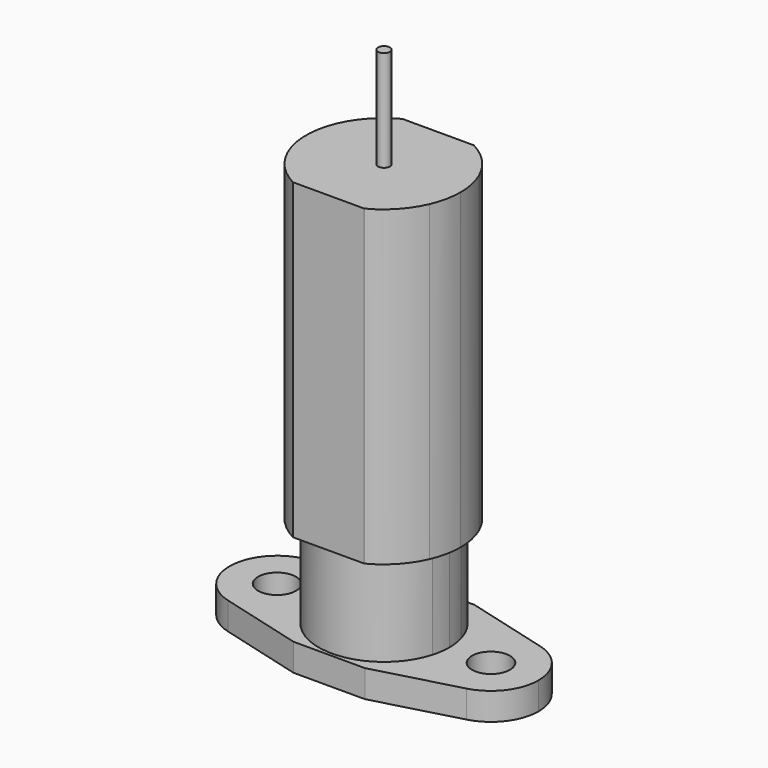
from build123d import *

# Parameters (mm, degrees)
F0_R     = 1.6
F0_R_2   = 0.5
F1_DEPTH = 2.3
F2_DEPTH = 10
F3_R     = 0.5
F4_DEPTH = 26.3
F5_DEPTH = 44.8
F6_R     = 0.5
F7_DEPTH = 2.5


with BuildPart() as f1:
    # F0 (on Top) → F1 (new body)
    with BuildSketch(Plane.XY):
        with BuildLine():
            ThreePointArc((-5.9583333333, 2.5977420751), (-7.8179017385, 3.8213405632), (-10.0435650822, 3.8614727656))
            ThreePointArc((-10.0435650822, 3.8614727656), (-13, 0), (-10.0435650822, -3.8614727656))
            ThreePointArc((-10.0435650822, -3.8614727656), (-7.8179017385, -3.8213405632), (-5.9583333333, -2.5977420751))
            ThreePointArc((-5.9583333333, -2.5977420751), (-6.5, 0), (-5.9583333333, 2.5977420751))
        make_face()
        with Locations((-9, 0)):
            Circle(F0_R, mode=Mode.SUBTRACT)
        with BuildLine():
            ThreePointArc((-5.9583333333, 2.5977420751), (-4.7530555292, 4.4337865461), (-3.0051133447, 5.7636181159))
            Line((-3.0051133447, 5.7636181159), (-10.0435650822, 3.8614727656))
            ThreePointArc((-10.0435650822, 3.8614727656), (-7.8179017385, 3.8213405632), (-5.9583333333, 2.5977420751))
        make_face()
        with BuildLine():
            ThreePointArc((-5.2916666667, -1.4994211846), (-5.5, 0), (-5.2916666667, 1.4994211846))
            ThreePointArc((-5.2916666667, 1.4994211846), (-5.5806137693, 2.0755235015), (-5.9583333333, 2.5977420751))
            ThreePointArc((-5.9583333333, 2.5977420751), (-6.5, 0), (-5.9583333333, -2.5977420751))
            ThreePointArc((-5.9583333333, -2.5977420751), (-5.5806137693, -2.0755235015), (-5.2916666667, -1.4994211846))
        make_face()
        with BuildLine():
            ThreePointArc((-5, 0), (-5.0735936702, 0.7637626158), (-5.2916666667, 1.4994211846))
            ThreePointArc((-5.2916666667, 1.4994211846), (-5.5, 0), (-5.2916666667, -1.4994211846))
            ThreePointArc((-5.2916666667, -1.4994211846), (-5.0735936702, -0.7637626158), (-5, 0))
        make_face()
        with BuildLine():
            Line((-10.0435650822, -3.8614727656), (-3.0051133447, -5.7636181159))
            ThreePointArc((-3.0051133447, -5.7636181159), (-4.7530555292, -4.4337865461), (-5.9583333333, -2.5977420751))
            ThreePointArc((-5.9583333333, -2.5977420751), (-7.8179017385, -3.8213405632), (-10.0435650822, -3.8614727656))
        make_face()
        with BuildLine():
            ThreePointArc((3.0051133447, -5.7636181159), (4.7530555292, -4.4337865461), (5.9583333333, -2.5977420751))
            ThreePointArc((5.9583333333, -2.5977420751), (5.5806137693, -2.0755235015), (5.2916666667, -1.4994211846))
            ThreePointArc((5.2916666667, -1.4994211846), (0, -5.5), (-5.2916666667, -1.4994211846))
            ThreePointArc((-5.2916666667, -1.4994211846), (-5.5806137693, -2.0755235015), (-5.9583333333, -2.5977420751))
            ThreePointArc((-5.9583333333, -2.5977420751), (-4.7530555292, -4.4337865461), (-3.0051133447, -5.7636181159))
            Line((-3.0051133447, -5.7636181159), (-3, -5.765))
            Line((-3, -5.765), (3, -5.765))
            Line((3, -5.765), (3.0051133447, -5.7636181159))
        make_face()
        with BuildLine():
            ThreePointArc((5.2916666667, -1.4994211846), (5, 0), (5.2916666667, 1.4994211846))
            ThreePointArc((5.2916666667, 1.4994211846), (0, 5.5), (-5.2916666667, 1.4994211846))
            ThreePointArc((-5.2916666667, 1.4994211846), (-5.0735936702, 0.7637626158), (-5, 0))
            ThreePointArc((-5, 0), (-5.0735936702, -0.7637626158), (-5.2916666667, -1.4994211846))
            ThreePointArc((-5.2916666667, -1.4994211846), (0, -5.5), (5.2916666667, -1.4994211846))
        make_face()
        Circle(F0_R_2, mode=Mode.SUBTRACT)
        with BuildLine():
            ThreePointArc((5.2916666667, 1.4994211846), (5.5806137693, 2.0755235015), (5.9583333333, 2.5977420751))
            ThreePointArc((5.9583333333, 2.5977420751), (4.7530555292, 4.4337865461), (3.0051133447, 5.7636181159))
            Line((3.0051133447, 5.7636181159), (3, 5.765))
            Line((3, 5.765), (-3, 5.765))
            Line((-3, 5.765), (-3.0051133447, 5.7636181159))
            ThreePointArc((-3.0051133447, 5.7636181159), (-4.7530555292, 4.4337865461), (-5.9583333333, 2.5977420751))
            ThreePointArc((-5.9583333333, 2.5977420751), (-5.5806137693, 2.0755235015), (-5.2916666667, 1.4994211846))
            ThreePointArc((-5.2916666667, 1.4994211846), (0, 5.5), (5.2916666667, 1.4994211846))
        make_face()
        with BuildLine():
            ThreePointArc((5.9583333333, 2.5977420751), (7.8179017385, 3.8213405632), (10.0435650822, 3.8614727656))
            Line((10.0435650822, 3.8614727656), (3.0051133447, 5.7636181159))
            ThreePointArc((3.0051133447, 5.7636181159), (4.7530555292, 4.4337865461), (5.9583333333, 2.5977420751))
        make_face()
        with BuildLine():
            ThreePointArc((5.5, 0), (5.4476676967, 0.7569125885), (5.2916666667, 1.4994211846))
            ThreePointArc((5.2916666667, 1.4994211846), (5, 0), (5.2916666667, -1.4994211846))
            ThreePointArc((5.2916666667, -1.4994211846), (5.4476676967, -0.7569125885), (5.5, 0))
        make_face()
        with BuildLine():
            ThreePointArc((6.5, 0), (6.3631425674, 1.326806944), (5.9583333333, 2.5977420751))
            ThreePointArc((5.9583333333, 2.5977420751), (5.5806137693, 2.0755235015), (5.2916666667, 1.4994211846))
            ThreePointArc((5.2916666667, 1.4994211846), (5.4476676967, 0.7569125885), (5.5, 0))
            ThreePointArc((5.5, 0), (5.4476676967, -0.7569125885), (5.2916666667, -1.4994211846))
            ThreePointArc((5.2916666667, -1.4994211846), (5.5806137693, -2.0755235015), (5.9583333333, -2.5977420751))
            ThreePointArc((5.9583333333, -2.5977420751), (6.3631425674, -1.326806944), (6.5, 0))
        make_face()
        with BuildLine():
            ThreePointArc((10.0435650822, -3.8614727656), (12.1760242701, -2.4316393309), (13, 0))
            ThreePointArc((13, 0), (12.1760242701, 2.4316393309), (10.0435650822, 3.8614727656))
            ThreePointArc((10.0435650822, 3.8614727656), (7.8179017385, 3.8213405632), (5.9583333333, 2.5977420751))
            ThreePointArc((5.9583333333, 2.5977420751), (6.3631425674, 1.326806944), (6.5, 0))
            ThreePointArc((6.5, 0), (6.3631425674, -1.326806944), (5.9583333333, -2.5977420751))
            ThreePointArc((5.9583333333, -2.5977420751), (7.8179017385, -3.8213405632), (10.0435650822, -3.8614727656))
        make_face()
        with Locations((9, 0)):
            Circle(F0_R, mode=Mode.SUBTRACT)
        with BuildLine():
            Line((3.0051133447, -5.7636181159), (10.0435650822, -3.8614727656))
            ThreePointArc((10.0435650822, -3.8614727656), (7.8179017385, -3.8213405632), (5.9583333333, -2.5977420751))
            ThreePointArc((5.9583333333, -2.5977420751), (4.7530555292, -4.4337865461), (3.0051133447, -5.7636181159))
        make_face()
    extrude(amount=F1_DEPTH)

    # F0 (on Top) → F2 (join)
    with BuildSketch(Plane.XY):
        with BuildLine():
            ThreePointArc((5.2916666667, -1.4994211846), (5, 0), (5.2916666667, 1.4994211846))
            ThreePointArc((5.2916666667, 1.4994211846), (0, 5.5), (-5.2916666667, 1.4994211846))
            ThreePointArc((-5.2916666667, 1.4994211846), (-5.0735936702, 0.7637626158), (-5, 0))
            ThreePointArc((-5, 0), (-5.0735936702, -0.7637626158), (-5.2916666667, -1.4994211846))
            ThreePointArc((-5.2916666667, -1.4994211846), (0, -5.5), (5.2916666667, -1.4994211846))
        make_face()
        Circle(F0_R_2, mode=Mode.SUBTRACT)
        Circle(F0_R_2)
        with BuildLine():
            ThreePointArc((-5, 0), (-5.0735936702, 0.7637626158), (-5.2916666667, 1.4994211846))
            ThreePointArc((-5.2916666667, 1.4994211846), (-5.5, 0), (-5.2916666667, -1.4994211846))
            ThreePointArc((-5.2916666667, -1.4994211846), (-5.0735936702, -0.7637626158), (-5, 0))
        make_face()
        with BuildLine():
            ThreePointArc((5.5, 0), (5.4476676967, 0.7569125885), (5.2916666667, 1.4994211846))
            ThreePointArc((5.2916666667, 1.4994211846), (5, 0), (5.2916666667, -1.4994211846))
            ThreePointArc((5.2916666667, -1.4994211846), (5.4476676967, -0.7569125885), (5.5, 0))
        make_face()
    extrude(amount=F2_DEPTH)

    # F3 (on face) → F4 (join)
    with BuildSketch(Plane.XY.offset(10)):
        with BuildLine():
            ThreePointArc((5.2050472789, -1.4591722497), (4.9133806123, 0.040248935), (5.2050472789, 1.5396701196))
            ThreePointArc((5.2050472789, 1.5396701196), (4.1142515453, 3.5902747665), (2.2742683579, 5.0077643152))
            ThreePointArc((2.2742683579, 5.0077643152), (-2.364863611, 4.9656238381), (-5.3213602345, 1.3903687478))
            ThreePointArc((-5.3213602345, 1.3903687478), (-5.1457415279, 0.7254362769), (-5.0866193877, 0.040248935))
            ThreePointArc((-5.0866193877, 0.040248935), (-5.1488151768, -0.662387526), (-5.3334683859, -1.3431734724))
            ThreePointArc((-5.3334683859, -1.3431734724), (-4.2526159756, -3.4878728997), (-2.3608877456, -4.9675153802))
            ThreePointArc((-2.3608877456, -4.9675153802), (2.2270986199, -4.949411272), (5.2050472789, -1.4591722497))
        make_face()
        with Locations((-0.0866193877, 0.040248935)):
            Circle(F3_R, mode=Mode.SUBTRACT)
        with BuildLine():
            ThreePointArc((5.2487200718, 1.6434529528), (5.5235454188, 2.1636936272), (5.8717139456, 2.6379910101))
            ThreePointArc((5.8717139456, 2.6379910101), (4.6664361415, 4.474035481), (2.918493957, 5.8038670508))
            Line((2.918493957, 5.8038670508), (2.9133806123, 5.805248935))
            Line((2.9133806123, 5.805248935), (-3.0866193877, 5.805248935))
            Line((-3.0866193877, 5.805248935), (-3.0917327325, 5.8038670508))
            ThreePointArc((-3.0917327325, 5.8038670508), (-4.839674917, 4.474035481), (-6.0449527211, 2.6379910101))
            ThreePointArc((-6.0449527211, 2.6379910101), (-5.667233157, 2.1157724365), (-5.3782860544, 1.5396701196))
            ThreePointArc((-5.3782860544, 1.5396701196), (-2.3569245673, 5.0498112304), (2.2742683579, 5.0077643152))
            ThreePointArc((2.2742683579, 5.0077643152), (4.1204959002, 3.6430088575), (5.2487200718, 1.6434529528))
        make_face()
        with BuildLine():
            ThreePointArc((2.918493957, -5.7233691809), (4.6664361415, -4.3935376111), (5.8717139456, -2.5574931402))
            ThreePointArc((5.8717139456, -2.5574931402), (5.5331684294, -2.0984809683), (5.2633479593, -1.5959850435))
            ThreePointArc((5.2633479593, -1.5959850435), (2.2243814929, -5.0301219641), (-2.3608877456, -4.9675153802))
            ThreePointArc((-2.3608877456, -4.9675153802), (-4.2565068058, -3.5461195515), (-5.3782860544, -1.4591722497))
            ThreePointArc((-5.3782860544, -1.4591722497), (-5.667233157, -2.0352745666), (-6.0449527211, -2.5574931402))
            ThreePointArc((-6.0449527211, -2.5574931402), (-4.839674917, -4.3935376111), (-3.0917327325, -5.7233691809))
            Line((-3.0917327325, -5.7233691809), (-3.0866193877, -5.724751065))
            Line((-3.0866193877, -5.724751065), (2.9133806123, -5.724751065))
            Line((2.9133806123, -5.724751065), (2.918493957, -5.7233691809))
        make_face()
        with BuildLine():
            ThreePointArc((-5.3782860544, 1.5396701196), (-5.667233157, 2.1157724365), (-6.0449527211, 2.6379910101))
            ThreePointArc((-6.0449527211, 2.6379910101), (-6.5866193877, 0.040248935), (-6.0449527211, -2.5574931402))
            ThreePointArc((-6.0449527211, -2.5574931402), (-5.667233157, -2.0352745666), (-5.3782860544, -1.4591722497))
            ThreePointArc((-5.3782860544, -1.4591722497), (-5.5866193877, 0.040248935), (-5.3782860544, 1.5396701196))
        make_face()
        with BuildLine():
            ThreePointArc((6.4133806123, 0.040248935), (6.2765231797, 1.367055879), (5.8717139456, 2.6379910101))
            ThreePointArc((5.8717139456, 2.6379910101), (5.5235454188, 2.1636936272), (5.2487200718, 1.6434529528))
            ThreePointArc((5.2487200718, 1.6434529528), (5.4368171017, 0.8312760087), (5.5, 0))
            ThreePointArc((5.5, 0), (5.4405153146, -0.806717492), (5.2633479593, -1.5959850435))
            ThreePointArc((5.2633479593, -1.5959850435), (5.5331684294, -2.0984809683), (5.8717139456, -2.5574931402))
            ThreePointArc((5.8717139456, -2.5574931402), (6.2765231797, -1.286558009), (6.4133806123, 0.040248935))
        make_face()
        with BuildLine():
            ThreePointArc((5.4133806123, 0.040248935), (5.3610483089, 0.7971615235), (5.2050472789, 1.5396701196))
            ThreePointArc((5.2050472789, 1.5396701196), (4.9133806123, 0.040248935), (5.2050472789, -1.4591722497))
            ThreePointArc((5.2050472789, -1.4591722497), (5.3610483089, -0.7166636536), (5.4133806123, 0.040248935))
        make_face()
        with Locations((-0.0866193877, 0.040248935)):
            Circle(F3_R)
        with BuildLine():
            ThreePointArc((-5.0866193877, 0.040248935), (-5.1457415279, 0.7254362769), (-5.3213602345, 1.3903687478))
            ThreePointArc((-5.3213602345, 1.3903687478), (-5.4999460452, 0.0243618623), (-5.3334683859, -1.3431734724))
            ThreePointArc((-5.3334683859, -1.3431734724), (-5.1488151768, -0.662387526), (-5.0866193877, 0.040248935))
        make_face()
        with BuildLine():
            ThreePointArc((-5.3213602345, 1.3903687478), (-2.364863611, 4.9656238381), (2.2742683579, 5.0077643152))
            ThreePointArc((2.2742683579, 5.0077643152), (-2.3569245673, 5.0498112304), (-5.3782860544, 1.5396701196))
            ThreePointArc((-5.3782860544, 1.5396701196), (-5.3490775634, 1.4653037098), (-5.3213602345, 1.3903687478))
        make_face()
        with BuildLine():
            ThreePointArc((-2.3608877456, -4.9675153802), (2.2243814929, -5.0301219641), (5.2633479593, -1.5959850435))
            ThreePointArc((5.2633479593, -1.5959850435), (5.2335617401, -1.5278496167), (5.2050472789, -1.4591722497))
            ThreePointArc((5.2050472789, -1.4591722497), (2.2270986199, -4.949411272), (-2.3608877456, -4.9675153802))
        make_face()
        with BuildLine():
            ThreePointArc((5.5, 0), (5.4368171017, 0.8312760087), (5.2487200718, 1.6434529528))
            ThreePointArc((5.2487200718, 1.6434529528), (5.2265184796, 1.591715214), (5.2050472789, 1.5396701196))
            ThreePointArc((5.2050472789, 1.5396701196), (5.3610483089, 0.7971615235), (5.4133806123, 0.040248935))
            ThreePointArc((5.4133806123, 0.040248935), (5.3610483089, -0.7166636536), (5.2050472789, -1.4591722497))
            ThreePointArc((5.2050472789, -1.4591722497), (5.2335617401, -1.5278496167), (5.2633479593, -1.5959850435))
            ThreePointArc((5.2633479593, -1.5959850435), (5.4405153146, -0.806717492), (5.5, 0))
        make_face()
        with BuildLine():
            ThreePointArc((-5.3213602345, 1.3903687478), (-5.3490775634, 1.4653037098), (-5.3782860544, 1.5396701196))
            ThreePointArc((-5.3782860544, 1.5396701196), (-5.5866193877, 0.040248935), (-5.3782860544, -1.4591722497))
            ThreePointArc((-5.3782860544, -1.4591722497), (-5.3554264082, -1.4013470382), (-5.3334683859, -1.3431734724))
            ThreePointArc((-5.3334683859, -1.3431734724), (-5.4999460452, 0.0243618623), (-5.3213602345, 1.3903687478))
        make_face()
        with BuildLine():
            ThreePointArc((-5.3782860544, -1.4591722497), (-4.2565068058, -3.5461195515), (-2.3608877456, -4.9675153802))
            ThreePointArc((-2.3608877456, -4.9675153802), (-4.2526159756, -3.4878728997), (-5.3334683859, -1.3431734724))
            ThreePointArc((-5.3334683859, -1.3431734724), (-5.3554264082, -1.4013470382), (-5.3782860544, -1.4591722497))
        make_face()
        with BuildLine():
            ThreePointArc((5.2050472789, 1.5396701196), (5.2265184796, 1.591715214), (5.2487200718, 1.6434529528))
            ThreePointArc((5.2487200718, 1.6434529528), (4.1204959002, 3.6430088575), (2.2742683579, 5.0077643152))
            ThreePointArc((2.2742683579, 5.0077643152), (4.1142515453, 3.5902747665), (5.2050472789, 1.5396701196))
        make_face()
    extrude(amount=F4_DEPTH)

    # F0 (on Top) → F5 (join)
    with BuildSketch(Plane.XY):
        Circle(F0_R_2)
    extrude(amount=F5_DEPTH)

    # F6 (on face) → F7 (join, symmetric)
    with BuildSketch(Plane.XY.offset(10)):
        with BuildLine():
            ThreePointArc((-2.3608877456, -4.9675153802), (2.2270986199, -4.949411272), (5.2050472789, -1.4591722497))
            ThreePointArc((5.2050472789, -1.4591722497), (4.9133806123, 0.040248935), (5.2050472789, 1.5396701196))
            ThreePointArc((5.2050472789, 1.5396701196), (4.1142515453, 3.5902747665), (2.2742683579, 5.0077643152))
            ThreePointArc((2.2742683579, 5.0077643152), (-2.364863611, 4.9656238381), (-5.3213602345, 1.3903687478))
            ThreePointArc((-5.3213602345, 1.3903687478), (-5.1457415279, 0.7254362769), (-5.0866193877, 0.040248935))
            ThreePointArc((-5.0866193877, 0.040248935), (-5.1488151768, -0.662387526), (-5.3334683859, -1.3431734724))
            ThreePointArc((-5.3334683859, -1.3431734724), (-4.2526159756, -3.4878728997), (-2.3608877456, -4.9675153802))
        make_face()
        with Locations((-0.0866193877, 0.040248935)):
            Circle(F6_R, mode=Mode.SUBTRACT)
    extrude(amount=F7_DEPTH, both=True)


solid = f1.part
